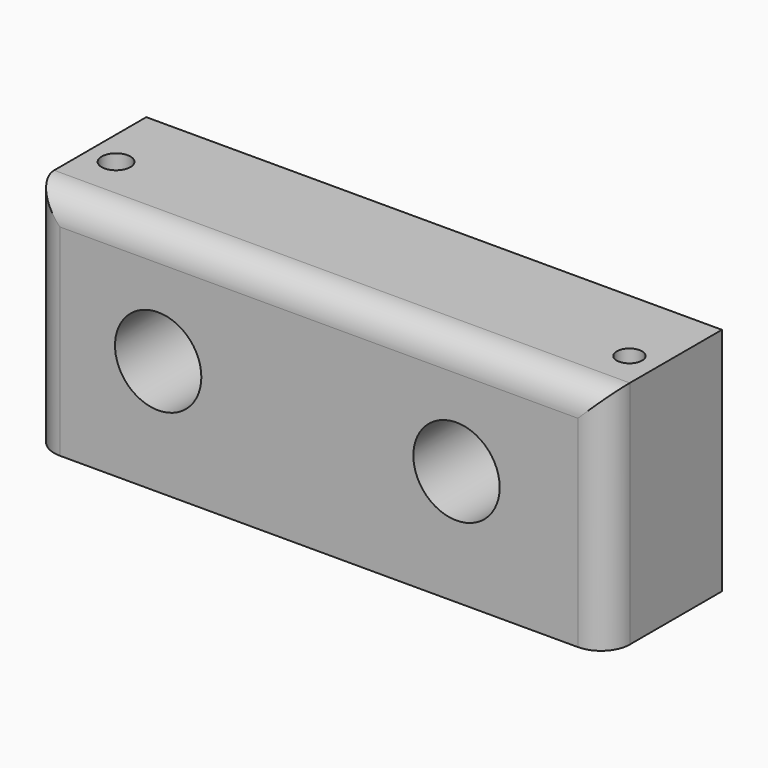
from build123d import *

# Parameters (mm, degrees)
F0_W     = 100
F0_H     = 40
F0_R     = 7.5
F1_DEPTH = 25
F2_R     = 2.5
F2_R_2   = 2.193335
F3_DEPTH = 40.001
F4_R     = 5


with BuildPart() as f1:
    # F0 (on Front) → F1 (new body)
    with BuildSketch(Plane.XZ):
        Rectangle(F0_W, F0_H)
        with Locations((-27.932694, 0)):
            Circle(F0_R, mode=Mode.SUBTRACT)
        with Locations((23.894234, 0)):
            Circle(F0_R, mode=Mode.SUBTRACT)
    extrude(amount=F1_DEPTH)

    # F2 (on face) → F3 (cut, through all)
    with BuildSketch(Plane.XY.offset(20)):
        with Locations((-45, -12.810267)):
            Circle(F2_R)
        with Locations((45, -13.836424)):
            Circle(F2_R_2)
    extrude(amount=-F3_DEPTH, mode=Mode.SUBTRACT)

    # F4
    f4_edges = [f1.edges().sort_by_distance(p)[0] for p in [
        (-50, -25, 0),
        (0, -25, 20),
        (50, -25, 0),
    ]]
    fillet(f4_edges, radius=F4_R)


solid = f1.part
